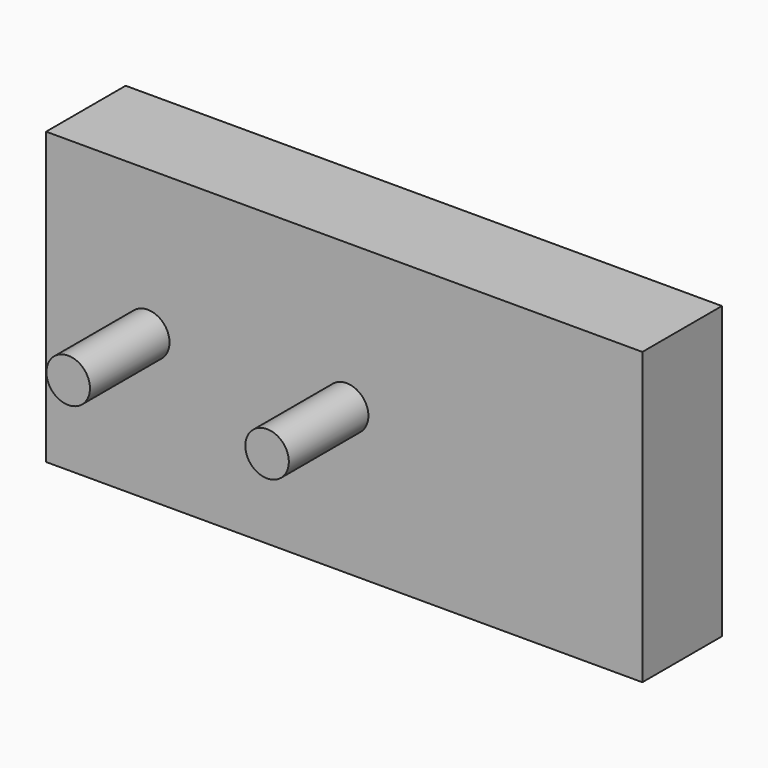
from build123d import *

# Parameters (mm, degrees)
F0_W     = 152.302712
F0_H     = 74.283205
F1_DEPTH = 25.4
F2_R     = 5.55625
F3_DEPTH = 25.4


with BuildPart() as f1:
    # F0 (on Front) → F1 (new body)
    with BuildSketch(Plane.XZ):
        with Locations((76.151356, 37.141602)):
            Rectangle(F0_W, F0_H)
    extrude(amount=F1_DEPTH)


with BuildPart() as f3:
    # F2 (on face) → F3 (new body)
    with BuildSketch(Plane.XZ.offset(25.4)):
        with Locations((25.968658, 37.141602)):
            Circle(F2_R)
        with Locations((76.768658, 37.141602)):
            Circle(F2_R)
    extrude(amount=F3_DEPTH)


solid = Compound([f1.part, f3.part])
